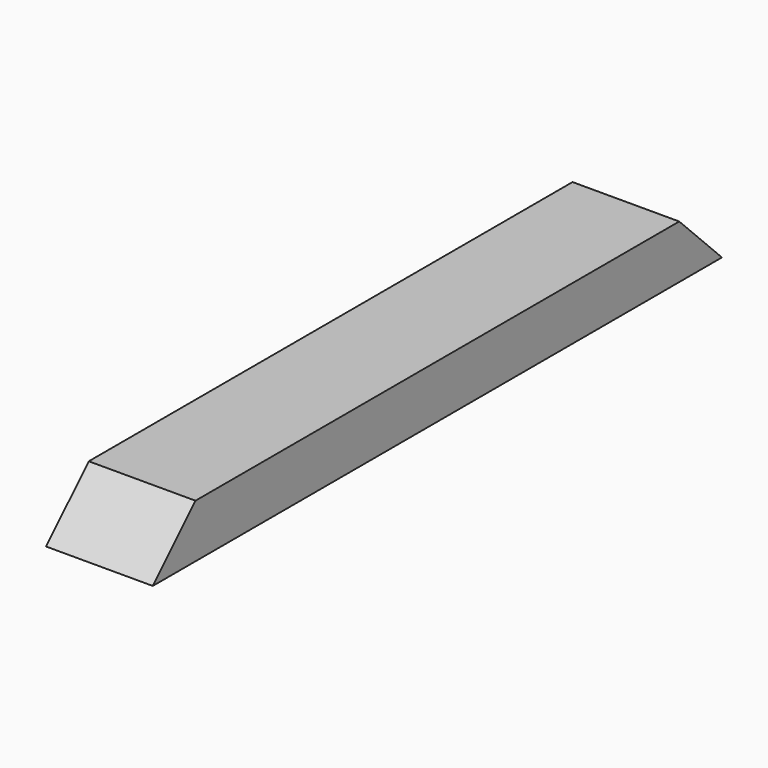
from build123d import *

# Parameters (mm, degrees)
F0_W          = 76.2
F0_H          = 38.1
F1_DEPTH      = 254
F1_DEPTH_BACK = 254
F3_DEPTH      = 76.2


with BuildPart() as f1:
    # F0 (on Front) → F1 (new body, two sides)
    with BuildSketch(Plane.XZ) as f1_sk:
        Rectangle(F0_W, F0_H)
    extrude(amount=F1_DEPTH)
    extrude(f1_sk.sketch, amount=-F1_DEPTH_BACK)

    # F2 (on face) → F3 (cut, through all)
    with BuildSketch(Plane(origin=(-38.1, 0, 0), x_dir=(0, -1, 0), z_dir=(-1, 0, 0))):
        Polygon((-215.9, 19.05), (-254, 19.05), (-254, -19.05), align=None)
        Polygon((215.9, 19.05), (254, -19.05), (254, 19.05), align=None)
    extrude(amount=-F3_DEPTH, mode=Mode.SUBTRACT)


solid = f1.part
